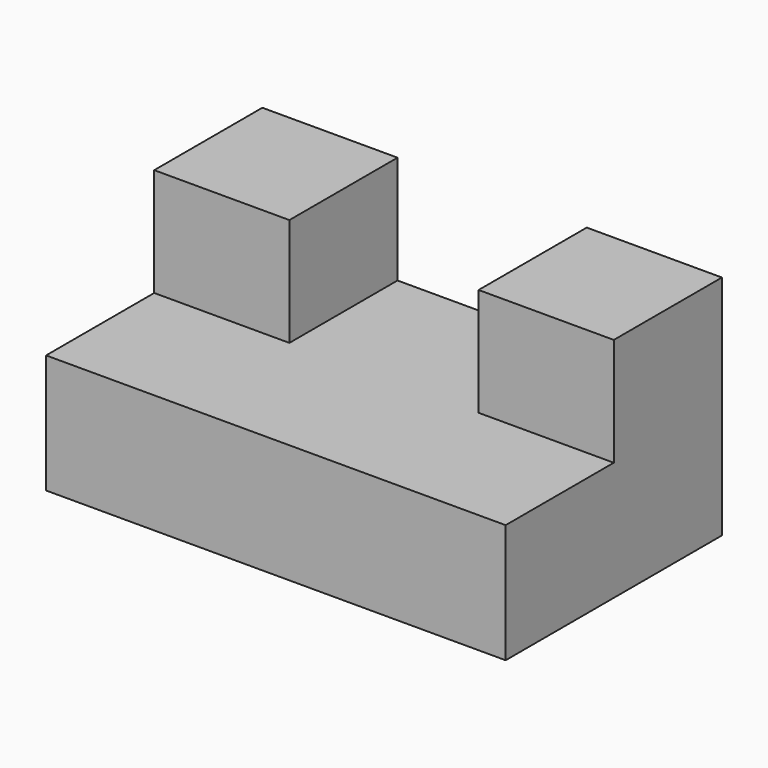
from build123d import *

# Parameters (mm, degrees)
F0_W     = 25
F0_H     = 25
F1_DEPTH = 22
F2_DEPTH = 20


with BuildPart() as f1:
    # F0 (on Top) → F1 (new body)
    with BuildSketch(Plane.XY):
        with Locations((-72.5, 37.5)):
            Rectangle(F0_W, F0_H)
        Polygon((-25, 50), (-60, 50), (-60, 25), (-85, 25), (-85, 0), (0, 0), (0, 25), (-25, 25), align=None)
        with Locations((-12.5, 37.5)):
            Rectangle(F0_W, F0_H)
    extrude(amount=-F1_DEPTH)

    # F0 (on Top) → F2 (join)
    with BuildSketch(Plane.XY):
        with Locations((-72.5, 37.5)):
            Rectangle(F0_W, F0_H)
        with Locations((-12.5, 37.5)):
            Rectangle(F0_W, F0_H)
    extrude(amount=F2_DEPTH)


solid = f1.part
